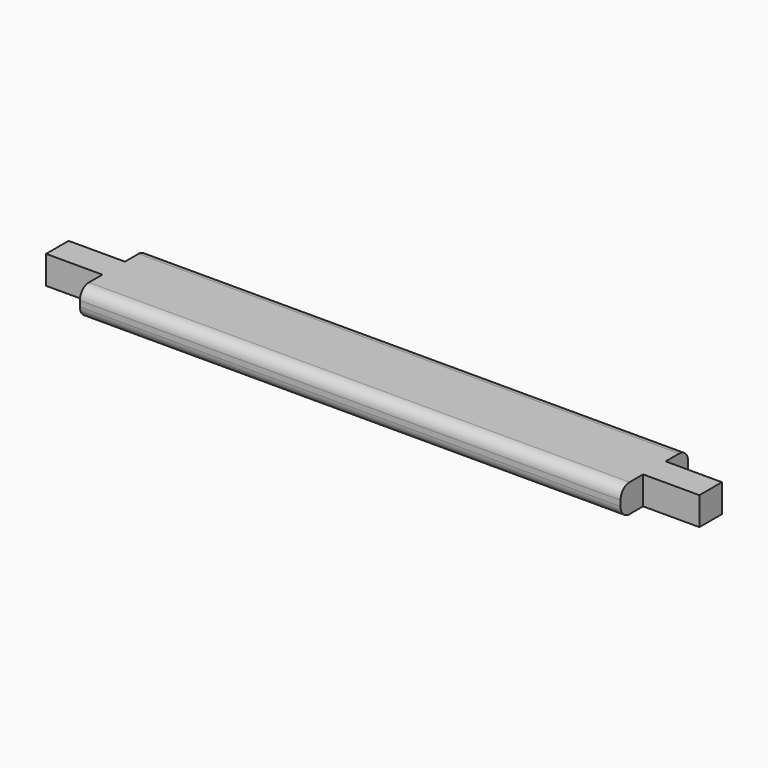
from build123d import *

# Parameters (mm, degrees)
F0_W     = 15
F0_H     = 5
F1_DEPTH = 100
F2_W     = 5
F2_H     = 5
F3_DEPTH = 10
F4_W     = 5
F4_H     = 5
F5_DEPTH = 10
F6_DEPTH = 4
F7_R     = 2


with BuildPart() as f1:
    # F0 (on Right) → F1 (new body)
    with BuildSketch(Plane.YZ):
        with Locations((-8.0427642167, 0.8986243606)):
            Rectangle(F0_W, F0_H)
    extrude(amount=F1_DEPTH)

    # F2 (on face) → F3 (join)
    with BuildSketch(Plane.YZ.offset(100)):
        with Locations((-8.0427642167, 0.8986243606)):
            Rectangle(F2_W, F2_H)
    extrude(amount=F3_DEPTH)

    # F4 (on face) → F5 (join)
    with BuildSketch(Plane(origin=(0, 0, 0), x_dir=(0, -1, 0), z_dir=(-1, 0, 0))):
        with Locations((8.0427642167, 0.8986243606)):
            Rectangle(F4_W, F4_H)
    extrude(amount=F5_DEPTH)

    # F6 (cut): faces of the model
    f6_faces = [f1.faces().sort_by_distance(p)[0] for p in [
        (100, -13.0427642167, 0.8986243606),
        (100, -3.0427642167, 0.8986243606),
        (110, -8.0427642167, 0.8986243606),
    ]]
    extrude(f6_faces, amount=-F6_DEPTH, mode=Mode.SUBTRACT)

    # F7
    f7_edges = [f1.edges().sort_by_distance(p)[0] for p in [
        (48, -15.542764, 3.398624),
        (48, -0.542764, 3.398624),
        (48, -0.542764, -1.601376),
        (48, -15.542764, -1.601376),
    ]]
    fillet(f7_edges, radius=F7_R)


solid = f1.part
